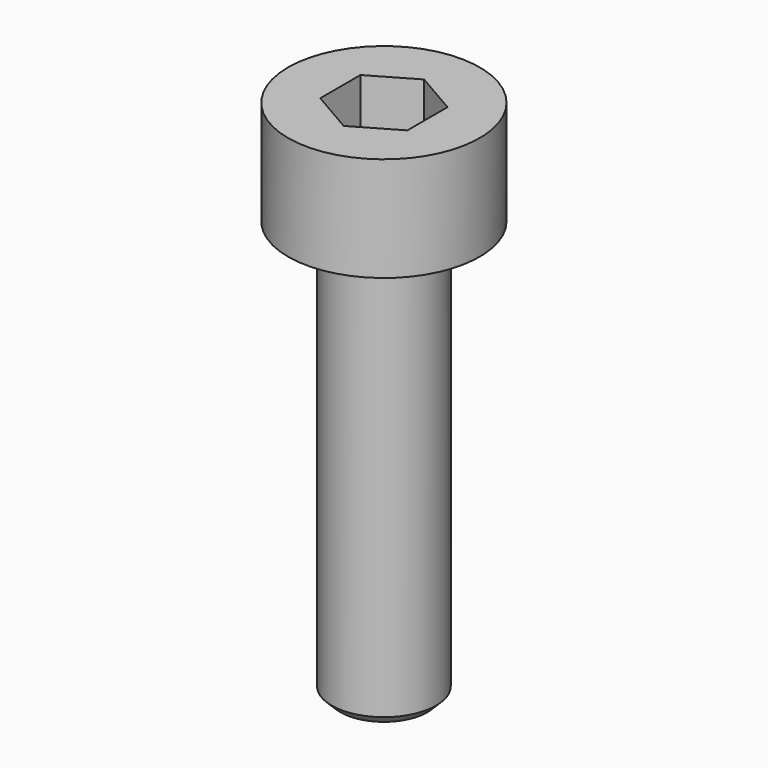
from build123d import *

# Parameters (mm, degrees)
F3_DEPTH = 1.5
F4_SIZE  = 0.25


with BuildPart() as f1:
    # F0 (on Front) → F1 (revolve)
    with BuildSketch(Plane.XZ):
        Polygon((-1.5, 0), (0, 0), (0, 15), (-2.75, 15), (-2.75, 12), (-1.5, 12), align=None)
    revolve(axis=Axis((0, 0, -2.50989), (0, 0, -1)))

    # F2 (on face) → F3 (cut)
    with BuildSketch(Plane.XY.offset(15)):
        Polygon((-1.25, 0.721688), (-1.25, -0.721688), (0, -1.443376), (1.25, -0.721688), (1.25, 0.721688), (0, 1.443376), align=None)
        Polygon((-1.25, 0.721688), (-1.25, -0.721688), (0, -1.443376), (1.25, -0.721688), (1.25, 0.721688), (0, 1.443376), align=None)
    extrude(amount=-F3_DEPTH, mode=Mode.SUBTRACT)

    # F4
    f4_edges = [f1.edges().sort_by_distance(p)[0] for p in [
        (1.5, 0, 0),
    ]]
    chamfer(f4_edges, length=F4_SIZE)


solid = f1.part
